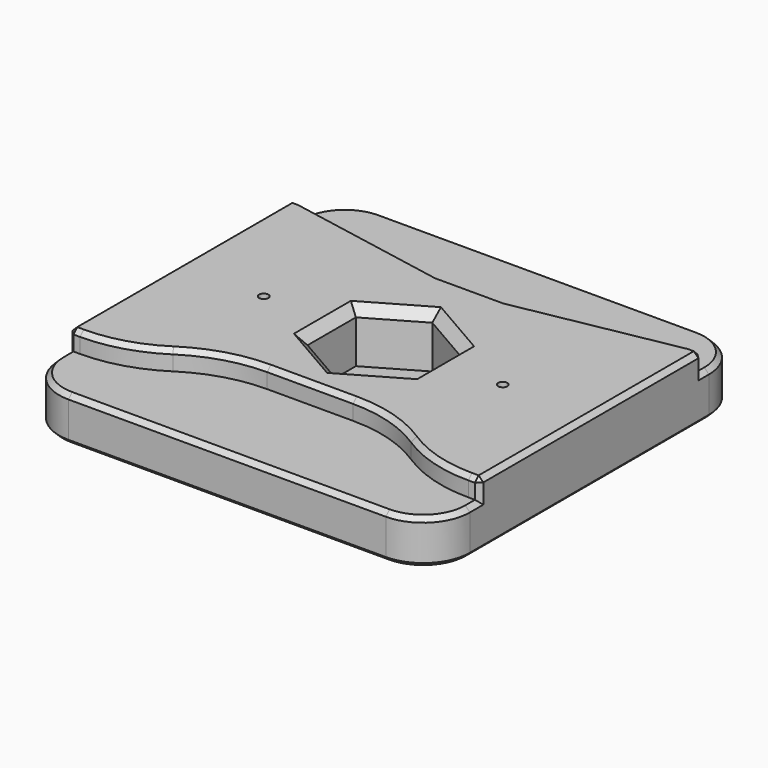
from build123d import *

# Parameters (mm, degrees)
PAD006_DEPTH       = 6.8
POCKET007_DEPTH    = 2.101
POCKET009_DEPTH    = 2.101
CHAMFER003_SIZE    = 0.5
SKETCH023_R        = 3.125
SKETCH023_R_2      = 2
POCKET021_DEPTH    = 2.9
POCKET021_FACE36_R = 3.125
POCKET022_DEPTH    = 3.901
POCKET023_DEPTH    = 5.6
CHAMFER006_SIZE    = 0.4
SKETCH021_R        = 0.5
POCKET024_DEPTH    = 6.801
CHAMFER007_SIZE    = 1


with BuildPart() as part:
    # ShapeBinder001 → Pad006 (new body)
    with BuildSketch(Plane(origin=(0, 0, -2.55), x_dir=(0, -1, 0), z_dir=(0, 0, -1))):
        with BuildLine():
            Line((21, -17), (21, 17))
            ThreePointArc((21, 17), (19.535534, 20.535534), (16, 22))
            Line((16, 22), (-16, 22))
            ThreePointArc((-16, 22), (-19.535534, 20.535534), (-21, 17))
            Line((-21, 17), (-21, -17))
            ThreePointArc((-21, -17), (-19.535534, -20.535534), (-16, -22))
            Line((-16, -22), (16, -22))
            ThreePointArc((16, -22), (19.535534, -20.535534), (21, -17))
        make_face()
    extrude(amount=PAD006_DEPTH)

    # Sketch012 (on Face1 of ShapeBinder003) → Pocket007 (cut, through all)
    with BuildSketch(Plane(origin=(0, 0, -4.65), x_dir=(1, 0, 0), z_dir=(0, 0, -1))):
        with BuildLine():
            Line((-22, -16), (-22, -15.101687))
            Line((-22, -15.101687), (-20.818291, -15.101687))
            Line((-20.818291, -15.101687), (-3.618291, -11.901687))
            Line((-3.618291, -11.901687), (3.618291, -11.901687))
            Line((3.618291, -11.901687), (20.818291, -15.101687))
            Line((20.818291, -15.101687), (22, -15.101687))
            Line((22, -15.101687), (22, -16))
            ThreePointArc((17, -21), (20.535534, -19.535534), (22, -16))
            Line((17, -21), (-17, -21))
            ThreePointArc((-22, -16), (-20.535534, -19.535534), (-17, -21))
        make_face()
    extrude(amount=-POCKET007_DEPTH, mode=Mode.SUBTRACT)

    # Sketch014 (on Face1 of ShapeBinder004) → Pocket009 (cut, through all)
    with BuildSketch(Plane(origin=(0, 0, -4.65), x_dir=(1, 0, 0), z_dir=(0, 0, -1))):
        with BuildLine():
            Line((17, 21), (-17, 21))
            ThreePointArc((-17, 21), (-20.535534, 19.535534), (-22, 16))
            Line((-22, 14.7), (-22, 16))
            Line((-20.8, 14.7), (-22, 14.7))
            ThreePointArc((-12.754477, 12.316141), (-16.604371, 14.0915), (-20.8, 14.7))
            ThreePointArc((-12.754477, 12.316141), (-8.852447, 10.516741), (-4.6, 9.9))
            Line((-4.6, 9.9), (4.6, 9.9))
            ThreePointArc((4.6, 9.9), (8.852447, 10.516741), (12.754477, 12.316141))
            ThreePointArc((20.8, 14.7), (16.604371, 14.0915), (12.754477, 12.316141))
            Line((20.8, 14.7), (22, 14.7))
            Line((22, 14.7), (22, 16))
            ThreePointArc((22, 16), (20.535534, 19.535534), (17, 21))
        make_face()
    extrude(amount=-POCKET009_DEPTH, mode=Mode.SUBTRACT)

    # Chamfer003
    chamfer003_edges = [part.edges().sort_by_distance(p)[0] for p in [
        (-21.4, -14.7, -2.55),
        (-16.604371, -14.0915, -2.55),
        (-8.852447, -10.516741, -2.55),
        (0, -9.9, -2.55),
        (8.852447, -10.516741, -2.55),
        (16.604371, -14.0915, -2.55),
        (21.4, -14.7, -2.55),
        (22, 0.200843, -2.55),
        (21.409145, 15.101687, -2.55),
        (12.218291, 13.501687, -2.55),
        (0, 11.901687, -2.55),
        (-12.218291, 13.501687, -2.55),
        (-21.409145, 15.101687, -2.55),
        (-22, 0.200843, -2.55),
        (0, -21, -4.65),
        (0, 21, -4.65),
        (22, -14.7, -3.6),
        (-22, -14.7, -3.6),
        (22, 15.101687, -3.6),
        (-22, 15.101687, -3.6),
    ]]
    chamfer(chamfer003_edges, length=CHAMFER003_SIZE)

    # Sketch023 → Pocket021 (cut)
    with BuildSketch(Plane(origin=(0, 0, -9.35), x_dir=(1, 0, 0), z_dir=(0, 0, -1))):
        Circle(SKETCH023_R)
        with Locations((0, 14)):
            Circle(SKETCH023_R_2)
    extrude(amount=-POCKET021_DEPTH, mode=Mode.SUBTRACT)

    # Pocket021 Face36 → Pocket022 (cut, through all)
    with BuildSketch(Plane(origin=(0, 0, -6.45), x_dir=(0, -1, 0), z_dir=(0, 0, -1))):
        Circle(POCKET021_FACE36_R)
    extrude(amount=-POCKET022_DEPTH, mode=Mode.SUBTRACT)

    # Sketch024 (on Face40 of Pocket022) → Pocket023 (cut)
    with BuildSketch(Plane.XY.offset(-2.55)):
        Polygon((0, 6.466323), (-5.6, 3.233162), (-5.6, -3.233162), (0, -6.466323), (5.6, -3.233162), (5.6, 3.233162), align=None)
    extrude(amount=-POCKET023_DEPTH, mode=Mode.SUBTRACT)

    # Chamfer006
    chamfer006_edges = [part.edges().sort_by_distance(p)[0] for p in [
        (0, -21, -9.35),
        (-20.535534, -19.535534, -9.35),
        (20.535534, -19.535534, -9.35),
        (-22, 0, -9.35),
        (22, 0, -9.35),
        (-20.535534, 19.535534, -9.35),
        (20.535534, 19.535534, -9.35),
        (0, 21, -9.35),
        (-3.125, 0, -9.35),
        (-2, -14, -9.35),
    ]]
    chamfer(chamfer006_edges, length=CHAMFER006_SIZE)

    # Sketch021 (on Face38 of Chamfer003) → Pocket024 (cut, through all)
    with BuildSketch(Plane.XY.offset(-2.55)):
        with Locations((-12.8, -0.1)):
            Circle(SKETCH021_R)
        with Locations((12.8, -0.1)):
            Circle(SKETCH021_R)
    extrude(amount=-POCKET024_DEPTH, mode=Mode.SUBTRACT)

    # Chamfer007
    chamfer007_edges = [part.edges().sort_by_distance(p)[0] for p in [
        (5.6, 0, -2.55),
        (2.8, 4.849742, -2.55),
        (-2.8, 4.849742, -2.55),
        (-5.6, 0, -2.55),
        (-2.8, -4.849742, -2.55),
        (2.8, -4.849742, -2.55),
    ]]
    chamfer(chamfer007_edges, length=CHAMFER007_SIZE)


solid = part.part
